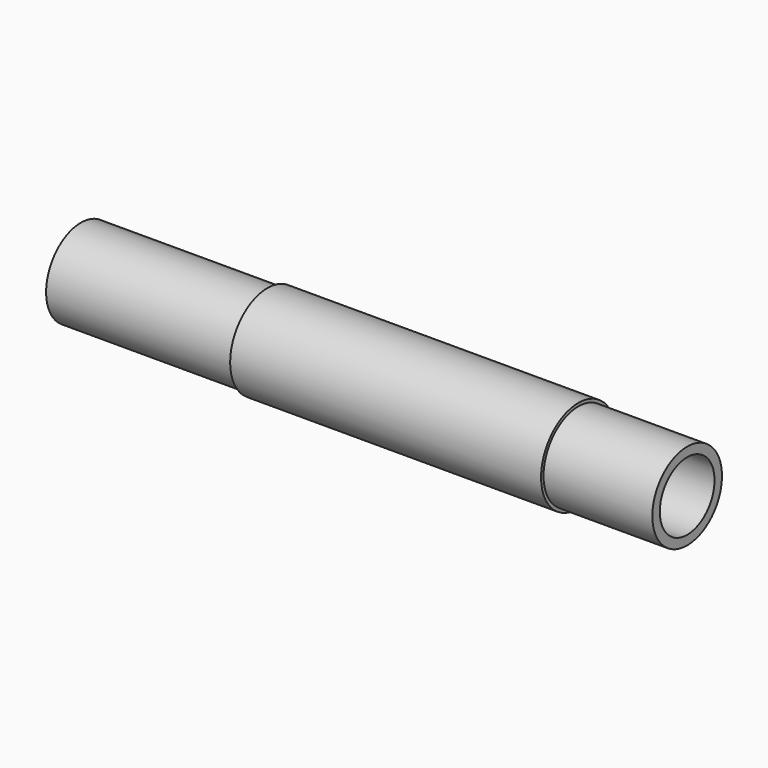
from build123d import *


with BuildPart() as part:
    # Sketch → Revolution (revolve)
    with BuildSketch(Plane.XY):
        Polygon((0, -11), (195, -11), (195, -14), (160, -14), (160, -15), (60, -15), (60, -14), (0, -14), align=None)
    revolve(axis=Axis((0, 0, 0), (1, 0, 0)))


solid = part.part
